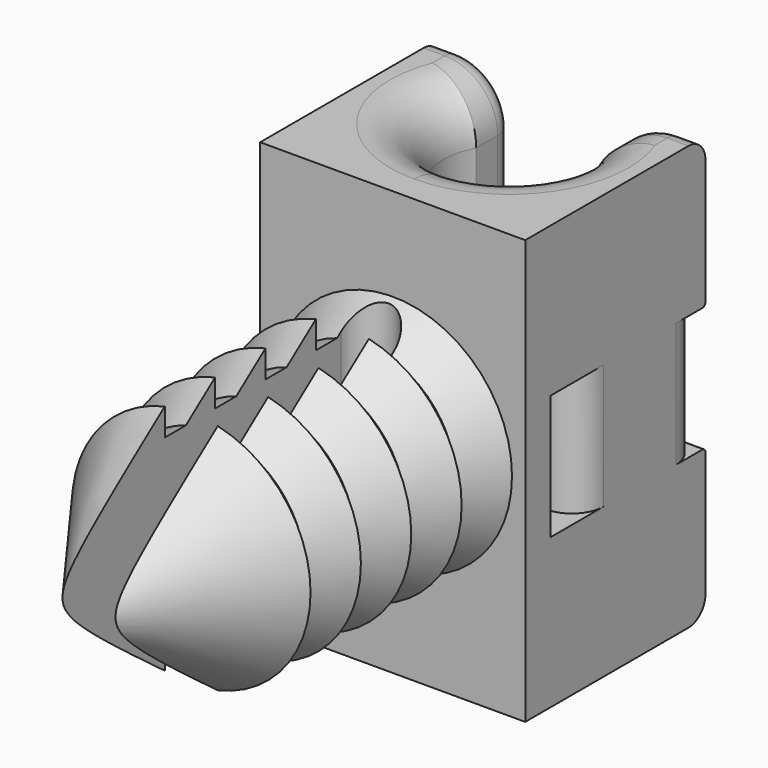
from build123d import *

# Parameters (mm, degrees)
PAD_DEPTH             = 8
FILLET_R              = 2
FILLET001_R           = 0.8
SKETCH004_W           = 1.3
SKETCH004_H           = 4.7
SKETCH004_W_2         = 0.2
POCKET_DEPTH          = 10
FILLET002_R           = 1.2
FILLET003_R           = 0.15
PAD001_DEPTH          = 5.5
LINEARPATTERN_COUNT   = 5
LINEARPATTERN_PITCH   = 2.375
LINEARPATTERN_FACE3_R = 3.5
POCKET001_DEPTH       = 2


with BuildPart() as pipe_holders:
    # Sketch → Pad (new body, symmetric)
    with BuildSketch(Plane.XY):
        with BuildLine():
            Line((0, 0), (-5, 0))
            Line((-5, 0), (-5, 8.5))
            Line((-5, 8.5), (-2.2, 8.5))
            Line((-2.2, 8.5), (-2.2, 6.687434))
            ThreePointArc((-2.2, 6.687434), (-2.146926, 4.219099), (0, 3))
            Line((0, 3), (0, 0))
        make_face()
    pad = extrude(amount=PAD_DEPTH, both=True)

    # Mirrored: Pad across Sketch V_Axis
    add(pad.mirror(Plane(origin=(0, 0, 0), x_dir=(0, 0, 1), z_dir=(1, 0, 0))))

    # Fillet
    fillet_edges = [pipe_holders.edges().sort_by_distance(p)[0] for p in [
        (2.2, 7.593717, -8),
        (2.146926, 4.219099, -8),
        (-2.146926, 4.219099, -8),
        (-2.2, 7.593717, -8),
        (-2.2, 7.593717, 8),
        (-2.146926, 4.219099, 8),
        (2.146926, 4.219099, 8),
        (2.2, 7.593717, 8),
    ]]
    fillet(fillet_edges, radius=FILLET_R)

    # Fillet001
    fillet001_edges = [pipe_holders.edges().sort_by_distance(p)[0] for p in [
        (2.2, 8.5, 0),
        (-2.2, 8.5, 0),
    ]]
    fillet(fillet001_edges, radius=FILLET001_R)

    # Sketch004 (on Face3 of Mirrored) → Pocket (cut)
    with BuildSketch(Plane(origin=(-5, 0, 0), x_dir=(0, -1, 0), z_dir=(-1, 0, 0))):
        with Locations((-1.85, 0)):
            Rectangle(SKETCH004_W, SKETCH004_H)
        with Locations((-8.4, 0)):
            Rectangle(SKETCH004_W_2, SKETCH004_H)
    extrude(amount=-POCKET_DEPTH, mode=Mode.SUBTRACT)

    # Fillet002
    fillet002_edges = [pipe_holders.edges().sort_by_distance(p)[0] for p in [
        (-5, 8.3, 0),
        (-5, 2.5, 0),
        (5, 8.3, 0),
        (5, 2.5, 0),
    ]]
    fillet(fillet002_edges, radius=FILLET002_R)

    # Fillet003
    fillet003_edges = [pipe_holders.edges().sort_by_distance(p)[0] for p in [
        (-4, 8.5, -2.35),
        (-4, 8.5, 2.35),
        (4, 8.5, -2.35),
        (4, 8.5, 2.35),
    ]]
    fillet(fillet003_edges, radius=FILLET003_R)


with BuildPart() as vide_rivet:
    # Sketch003 → Pad001 (new body, symmetric)
    with BuildSketch(Plane.XY):
        with BuildLine():
            ThreePointArc((1, -1.2), (0, -0.2), (-1, -1.2))
            Line((-1, -1.2), (-1, -17.2))
            ThreePointArc((-1, -17.2), (0, -18.2), (1, -17.2))
            Line((1, -17.2), (1, -1.2))
        make_face()
    extrude(amount=PAD001_DEPTH, both=True)


with BuildPart() as cut:
    # Sketch002 → Revolution (revolve)
    with BuildSketch(Plane.XY):
        Polygon((3.5, 2), (0, 2), (0, -6.2), (4.5, 0), (3.5, 0), align=None)
    revolution = revolve(axis=Axis((0, 0, 0), (0, 1, 0)))

    # LinearPattern: Revolution ×5
    with Locations(*[(0, -i * LINEARPATTERN_PITCH, 0) for i in range(1, LINEARPATTERN_COUNT)]):
        add(revolution)

    # LinearPattern Face3 → Pocket001 (cut)
    with BuildSketch(Plane(origin=(0, 2, 0), x_dir=(1, 0, 0), z_dir=(0, 1, 0))):
        Circle(LINEARPATTERN_FACE3_R)
    extrude(amount=-POCKET001_DEPTH, mode=Mode.SUBTRACT)

    # Cut: cut vide rivet
    add(vide_rivet.part, mode=Mode.SUBTRACT)


solid = Compound([pipe_holders.part, cut.part])
